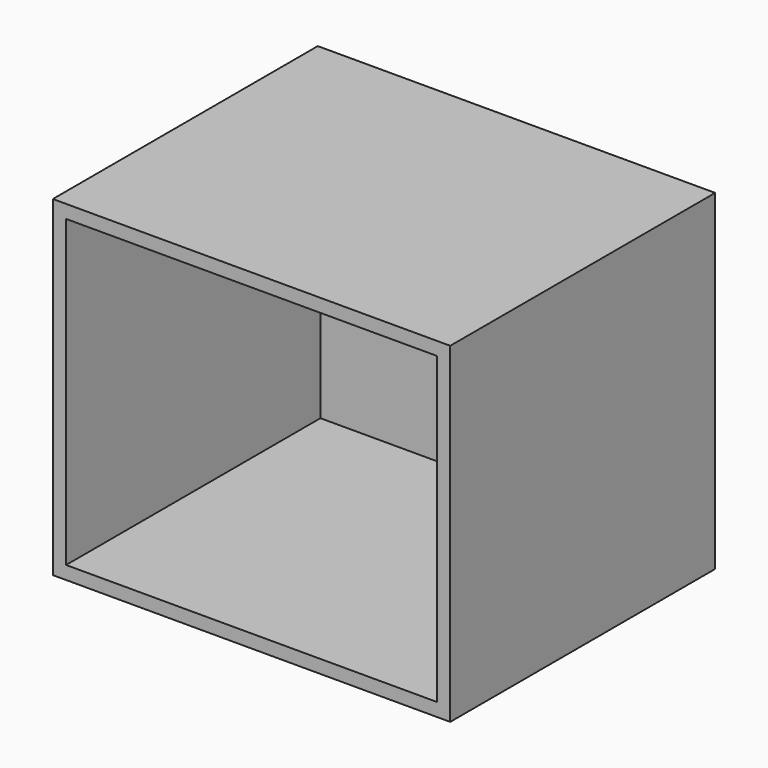
from build123d import *

# Parameters (mm, degrees)
F0_W      = 12.7
F0_H      = 63.5
F1_DEPTH  = 63.5
F1_FACE_W = 63.5
F1_FACE_H = 63.5
F2_DEPTH  = 63.5
F3_T      = -2.54


with BuildPart() as f1:
    # F0 (on Front) → F1 (new body)
    with BuildSketch(Plane.XZ):
        with Locations((6.35, -31.75)):
            Rectangle(F0_W, F0_H)
    extrude(amount=F1_DEPTH)

    # F1_face (on face) → F2 (join)
    with BuildSketch(Plane(origin=(12.7, -31.75, -31.75), x_dir=(0, 1, 0), z_dir=(1, 0, 0))):
        Rectangle(F1_FACE_W, F1_FACE_H)
    extrude(amount=F2_DEPTH)

    # F3
    f3_openings = [f1.faces().sort_by_distance(p)[0] for p in [
        (38.1, -63.5, -31.75),
    ]]
    offset(amount=F3_T, openings=f3_openings)


solid = f1.part
